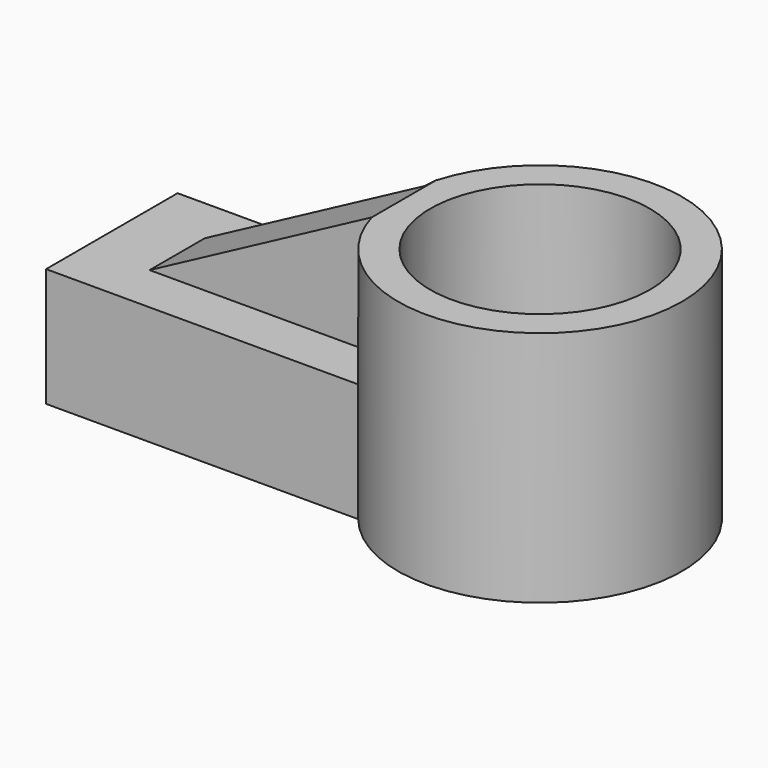
from build123d import *

# Parameters (mm, degrees)
F1_DEPTH = 25.4
F2_R     = 30.4008834271
F3_DEPTH = 50.8
F4_R     = 23.5140896475
F5_DEPTH = 1676.4
F7_DEPTH = 25.4
F9_DEPTH = 2514.6


with BuildPart() as f1:
    # F0 (on Top) → F1 (new body)
    with BuildSketch(Plane.XY):
        with BuildLine():
            Line((24.3670896719, 13.1341721863), (-45.9093526006, 13.1341721863))
            Line((-45.9093526006, 13.1341721863), (-45.9093526006, -22.0509488136))
            Line((-45.9093526006, -22.0509488136), (27.5870569542, -22.0509488136))
            ThreePointArc((27.5870569542, -22.0509488136), (16.0056375447, -5.3709245227), (24.3670896719, 13.1341721863))
        make_face()
    extrude(amount=F1_DEPTH)

    # F2 (on Top) → F3 (join)
    with BuildSketch(Plane.XY):
        with Locations((44.5437170565, -2.9546946753)):
            Circle(F2_R)
    extrude(amount=F3_DEPTH)

    # F4 (on face) → F5 (cut)
    with BuildSketch(Plane.XY.offset(50.8)):
        with Locations((44.5437170565, -2.9546946753)):
            Circle(F4_R)
    extrude(amount=-F5_DEPTH, mode=Mode.SUBTRACT)

    # F6 (on face) → F7 (join)
    with BuildSketch(Plane.XY.offset(25.4)):
        with BuildLine():
            Line((14.7834576284, 3.2534187194), (-32.1726948023, 3.2534187194))
            Line((-32.1726948023, 3.2534187194), (-32.1726948023, -11.5247956985))
            Line((-32.1726948023, -11.5247956985), (15.375805208, -11.5247956985))
            ThreePointArc((15.375805208, -11.5247956985), (14.167225359, -4.1722599931), (14.7834576284, 3.2534187194))
        make_face()
    extrude(amount=F7_DEPTH)

    # F8 (on face) → F9 (cut)
    with BuildSketch(Plane.XZ.offset(11.5247956985)):
        Polygon((-32.1726948023, 50.8), (-32.1726948023, 25.4), (15.375805208, 50.8), align=None)
    extrude(amount=-F9_DEPTH, mode=Mode.SUBTRACT)


solid = f1.part
